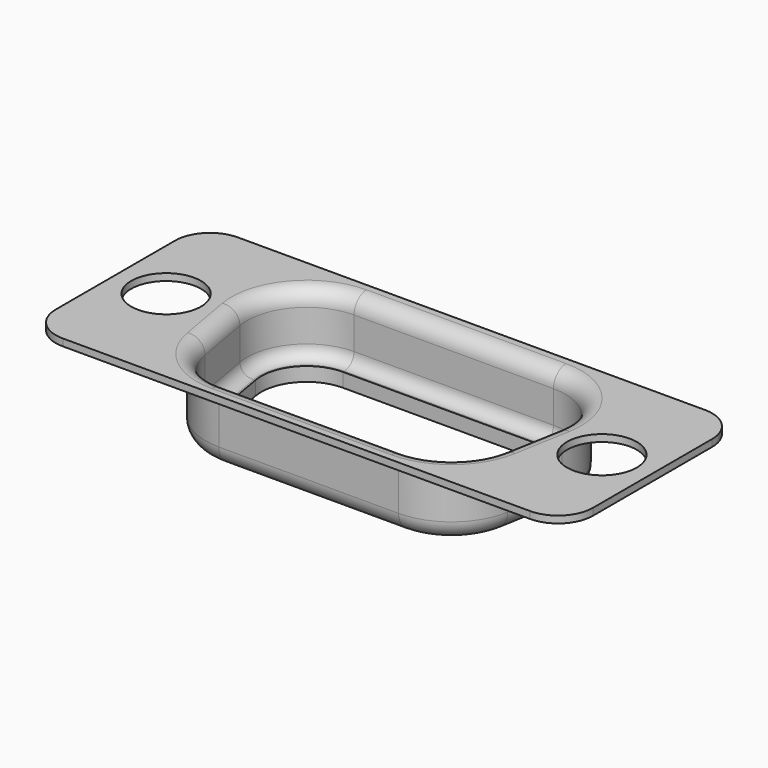
from build123d import *

# Parameters (mm, degrees)
PAD002_DEPTH            = 0.4
SKETCH005_R             = 2
POCKET002_DEPTH         = 5
PAD003_DEPTH            = 3.85
POCKET003_DEPTH         = 4.251
POCKET004_DEPTH         = 3.45
FILLET003_R             = 0.7
FILLET004_R             = 0.5
FILLET005_R             = 1.1
FILLET006_R             = 0.9
BODY001_PLACEMENT_ANGLE = 180


with BuildPart() as part:
    # Sketch004 → Pad002 (new body)
    with BuildSketch(Plane.XY):
        with BuildLine():
            Line((-13.4, 6.275), (13.4, 6.275))
            ThreePointArc((15.4, 4.275), (14.814214, 5.689214), (13.4, 6.275))
            Line((15.4, 4.275), (15.4, -4.275))
            ThreePointArc((13.4, -6.275), (14.814214, -5.689214), (15.4, -4.275))
            Line((13.4, -6.275), (-13.4, -6.275))
            ThreePointArc((-15.4, -4.275), (-14.814214, -5.689214), (-13.4, -6.275))
            Line((-15.4, -4.275), (-15.4, 4.275))
            ThreePointArc((-13.4, 6.275), (-14.814214, 5.689214), (-15.4, 4.275))
        make_face()
    extrude(amount=PAD002_DEPTH)

    # Sketch005 (on Face10 of Pad002) → Pocket002 (cut)
    with BuildSketch(Plane.XY.offset(0.4)):
        with Locations((-12.495, 0)):
            Circle(SKETCH005_R)
        with Locations((12.495, 0)):
            Circle(SKETCH005_R)
    extrude(amount=-POCKET002_DEPTH, mode=Mode.SUBTRACT)

    # Sketch006 (on Face5 of Pocket002) → Pad003 (join)
    with BuildSketch(Plane.XY.offset(0.4)):
        with BuildLine():
            Line((-5.72, 5.4), (5.72, 5.4))
            ThreePointArc((9.462119, 0.939282), (8.631248, 4.04226), (5.72, 5.4))
            Line((9.462119, 0.939282), (8.897119, -2.260718))
            ThreePointArc((5.155, -5.4), (7.59726, -4.511248), (8.897119, -2.260718))
            Line((5.155, -5.4), (-5.155, -5.4))
            ThreePointArc((-8.897119, -2.260718), (-7.59726, -4.511248), (-5.155, -5.4))
            Line((-8.897119, -2.260718), (-9.462119, 0.939282))
            ThreePointArc((-5.72, 5.4), (-8.631248, 4.04226), (-9.462119, 0.939282))
        make_face()
    extrude(amount=PAD003_DEPTH)

    # Sketch007 (on Face21 of Pad003) → Pocket003 (cut, through all)
    with BuildSketch(Plane.XY.offset(4.25)):
        with BuildLine():
            Line((-5.72, 4.2), (5.72, 4.2))
            ThreePointArc((8.280397, 1.14793), (7.711906, 3.27102), (5.72, 4.2))
            Line((8.280397, 1.14793), (7.715397, -2.05207))
            ThreePointArc((5.155, -4.2), (6.82602, -3.591906), (7.715397, -2.05207))
            Line((5.155, -4.2), (-5.155, -4.2))
            ThreePointArc((-7.715397, -2.05207), (-6.82602, -3.591906), (-5.155, -4.2))
            Line((-7.715397, -2.05207), (-8.280397, 1.14793))
            ThreePointArc((-5.72, 4.2), (-7.711906, 3.27102), (-8.280397, 1.14793))
        make_face()
    extrude(amount=-POCKET003_DEPTH, mode=Mode.SUBTRACT)

    # Sketch008 (on Face4 of Pocket003) → Pocket004 (cut)
    with BuildSketch(Plane(origin=(0, 0, 0), x_dir=(1, 0, 0), z_dir=(0, 0, -1))):
        with BuildLine():
            Line((-5.155, 5), (5.155, 5))
            ThreePointArc((8.503211, 2.191169), (7.34018, 4.204801), (5.155, 5))
            Line((8.503211, 2.191169), (9.068211, -1.008831))
            ThreePointArc((5.72, -5), (8.324801, -3.78518), (9.068211, -1.008831))
            Line((5.72, -5), (-5.72, -5))
            ThreePointArc((-9.068211, -1.008831), (-8.324801, -3.78518), (-5.72, -5))
            Line((-9.068211, -1.008831), (-8.503211, 2.191169))
            ThreePointArc((-5.155, 5), (-7.34018, 4.204801), (-8.503211, 2.191169))
        make_face()
    extrude(amount=-POCKET004_DEPTH, mode=Mode.SUBTRACT)

    # Fillet003
    fillet003_edges = [part.edges().sort_by_distance(p)[0] for p in [
        (8.324801, 3.78518, 3.45),
    ]]
    fillet(fillet003_edges, radius=FILLET003_R)

    # Fillet004
    fillet004_edges = [part.edges().sort_by_distance(p)[0] for p in [
        (8.631248, 4.04226, 0.4),
    ]]
    fillet(fillet004_edges, radius=FILLET004_R)

    # Fillet005
    fillet005_edges = [part.edges().sort_by_distance(p)[0] for p in [
        (8.631248, 4.04226, 4.25),
    ]]
    fillet(fillet005_edges, radius=FILLET005_R)

    # Fillet006
    fillet006_edges = [part.edges().sort_by_distance(p)[0] for p in [
        (0, 5, 0),
    ]]
    fillet(fillet006_edges, radius=FILLET006_R)


with BuildPart() as part_1:
    # Body001 placement: moved
    add(part.part.rotate(Axis((0, 0, 0), (0, 1, 0)), BODY001_PLACEMENT_ANGLE))


solid = part_1.part
